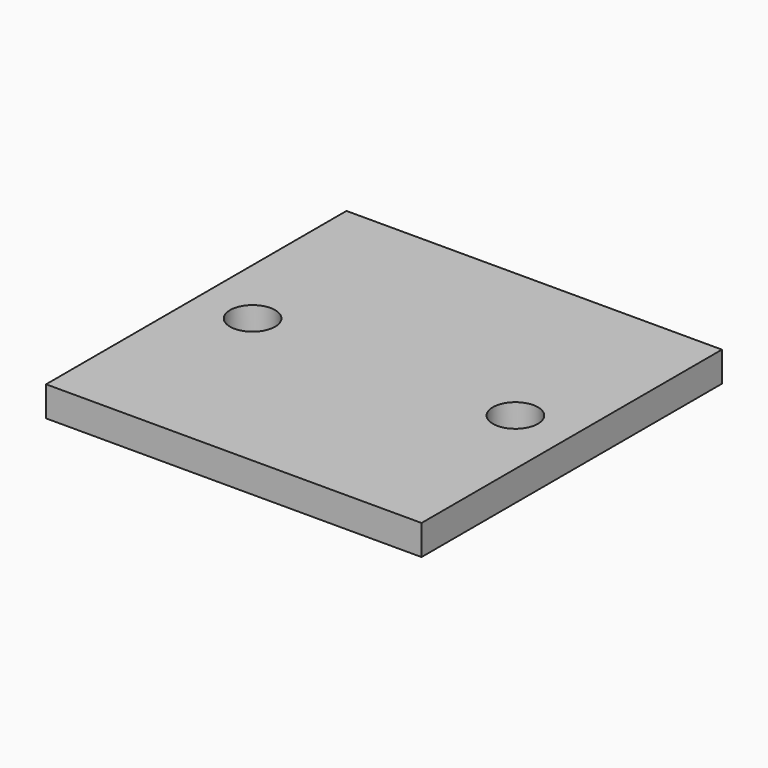
from build123d import *

# Parameters (mm, degrees)
F0_W     = 25
F0_H     = 25
F1_DEPTH = 2
F2_D     = 3


with BuildPart() as f1:
    # F0 (on Top) → F1 (new body)
    with BuildSketch(Plane.XY):
        Rectangle(F0_W, F0_H)
    extrude(amount=-F1_DEPTH)

    # F2 (through all)
    with Locations(Plane.XY):
        with Locations((-8.75, 0), (8.75, 0)):
            Hole(F2_D / 2)


solid = f1.part
